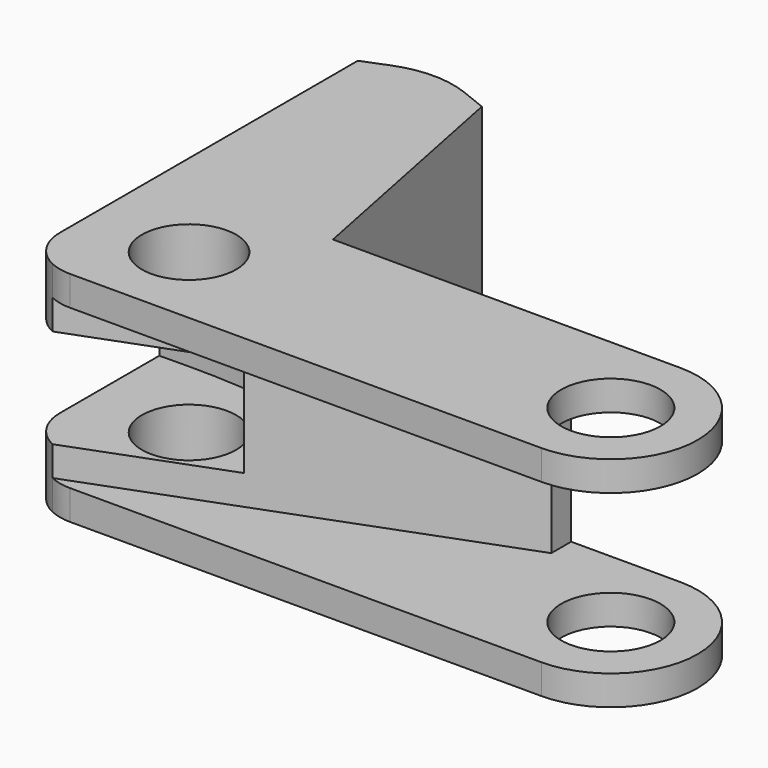
from build123d import *

# Parameters (mm, degrees)
F0_R     = 10
F0_R_2   = 9.5
F1_DEPTH = 6
F2_DEPTH = 12
F3_DEPTH = 22


with BuildPart() as f1:
    # F0 (on Top) → F1 (new body)
    with BuildSketch(Plane.XY):
        with BuildLine():
            Line((-95, -17.5), (0, -17.5))
            ThreePointArc((0, -17.5), (17.5, 0), (0, 17.5))
            Line((0, 17.5), (-22, 17.5))
            Line((-22, 17.5), (-22, 12.5))
            Line((-22, 12.5), (-69.5748026423, -5.3779074195))
            Line((-69.5748026423, -5.3779074195), (-99.2765917217, -16.5394006021))
            ThreePointArc((-99.2765917217, -16.5394006021), (-97.1915740894, -17.2568951522), (-95, -17.5))
        make_face()
        Circle(F0_R, mode=Mode.SUBTRACT)
        with BuildLine():
            Line((-22, 12.5), (-22, 17.5))
            Line((-22, 17.5), (-70, 17.5))
            Line((-70, 17.5), (-80, 67.5))
            Line((-80, 67.5), (-105, 67.5))
            Line((-105, 67.5), (-105, 17.5))
            add(Edge.make_bspline(
                [(-105, 17.5), (-92.1195688134, 17.707814564), (-69.750044995, 17.565080001), (-70.398492672, 3.779775432), (-69.5748026423, -2.8830476028)],
                knots=[0, 0, 0, 0, 0.5805224933, 1, 1, 1, 1], degree=3))
            Line((-69.5748026423, -2.8830476028), (-69.5748026423, -5.3779074195))
            Line((-69.5748026423, -5.3779074195), (-22, 12.5))
        make_face()
        with BuildLine():
            ThreePointArc((-105, -7.5), (-103.4488436255, -12.8494898253), (-99.2765917217, -16.5394006021))
            Line((-99.2765917217, -16.5394006021), (-69.5748026423, -5.3779074195))
            Line((-69.5748026423, -5.3779074195), (-69.5748026423, -2.8830476028))
            add(Edge.make_bspline(
                [(-105, 17.5), (-92.1195688134, 17.707814564), (-69.750044995, 17.565080001), (-70.398492672, 3.779775432), (-69.5748026423, -2.8830476028)],
                knots=[0, 0, 0, 0, 0.5805224933, 1, 1, 1, 1], degree=3))
            Line((-105, 17.5), (-105, -7.5))
        make_face()
        with Locations((-85, 0)):
            Circle(F0_R_2, mode=Mode.SUBTRACT)
        with BuildLine():
            Line((-105, 67.5), (-80, 67.5))
            Line((-80, 67.5), (-85.0721864729, 69.5288745892))
            ThreePointArc((-85.0721864729, 69.5288745892), (-92.5, 70.9593407715), (-99.9278135271, 69.5288745892))
            Line((-99.9278135271, 69.5288745892), (-105, 67.5))
        make_face()
    extrude(amount=F1_DEPTH)

    # F0 (on Top) → F2 (join)
    with BuildSketch(Plane.XY):
        with BuildLine():
            ThreePointArc((-105, -7.5), (-103.4488436255, -12.8494898253), (-99.2765917217, -16.5394006021))
            Line((-99.2765917217, -16.5394006021), (-69.5748026423, -5.3779074195))
            Line((-69.5748026423, -5.3779074195), (-69.5748026423, -2.8830476028))
            add(Edge.make_bspline(
                [(-105, 17.5), (-92.1195688134, 17.707814564), (-69.750044995, 17.565080001), (-70.398492672, 3.779775432), (-69.5748026423, -2.8830476028)],
                knots=[0, 0, 0, 0, 0.5805224933, 1, 1, 1, 1], degree=3))
            Line((-105, 17.5), (-105, -7.5))
        make_face()
        with Locations((-85, 0)):
            Circle(F0_R_2, mode=Mode.SUBTRACT)
        with BuildLine():
            Line((-22, 12.5), (-22, 17.5))
            Line((-22, 17.5), (-70, 17.5))
            Line((-70, 17.5), (-80, 67.5))
            Line((-80, 67.5), (-105, 67.5))
            Line((-105, 67.5), (-105, 17.5))
            add(Edge.make_bspline(
                [(-105, 17.5), (-92.1195688134, 17.707814564), (-69.750044995, 17.565080001), (-70.398492672, 3.779775432), (-69.5748026423, -2.8830476028)],
                knots=[0, 0, 0, 0, 0.5805224933, 1, 1, 1, 1], degree=3))
            Line((-69.5748026423, -2.8830476028), (-69.5748026423, -5.3779074195))
            Line((-69.5748026423, -5.3779074195), (-22, 12.5))
        make_face()
        with BuildLine():
            Line((-105, 67.5), (-80, 67.5))
            Line((-80, 67.5), (-85.0721864729, 69.5288745892))
            ThreePointArc((-85.0721864729, 69.5288745892), (-92.5, 70.9593407715), (-99.9278135271, 69.5288745892))
            Line((-99.9278135271, 69.5288745892), (-105, 67.5))
        make_face()
    extrude(amount=F2_DEPTH)

    # F0 (on Top) → F3 (join)
    with BuildSketch(Plane.XY):
        with BuildLine():
            Line((-22, 12.5), (-22, 17.5))
            Line((-22, 17.5), (-70, 17.5))
            Line((-70, 17.5), (-80, 67.5))
            Line((-80, 67.5), (-105, 67.5))
            Line((-105, 67.5), (-105, 17.5))
            add(Edge.make_bspline(
                [(-105, 17.5), (-92.1195688134, 17.707814564), (-69.750044995, 17.565080001), (-70.398492672, 3.779775432), (-69.5748026423, -2.8830476028)],
                knots=[0, 0, 0, 0, 0.5805224933, 1, 1, 1, 1], degree=3))
            Line((-69.5748026423, -2.8830476028), (-69.5748026423, -5.3779074195))
            Line((-69.5748026423, -5.3779074195), (-22, 12.5))
        make_face()
        with BuildLine():
            Line((-105, 67.5), (-80, 67.5))
            Line((-80, 67.5), (-85.0721864729, 69.5288745892))
            ThreePointArc((-85.0721864729, 69.5288745892), (-92.5, 70.9593407715), (-99.9278135271, 69.5288745892))
            Line((-99.9278135271, 69.5288745892), (-105, 67.5))
        make_face()
    extrude(amount=F3_DEPTH)

    # F4: F1 across face


with BuildPart() as f1_1:
    add(f1.part)
    add(f1.part.mirror(Plane(origin=(-78.1474366436, 31.848252571, 22), x_dir=(1, 0, 0), z_dir=(0, 0, 1))))


solid = f1_1.part
